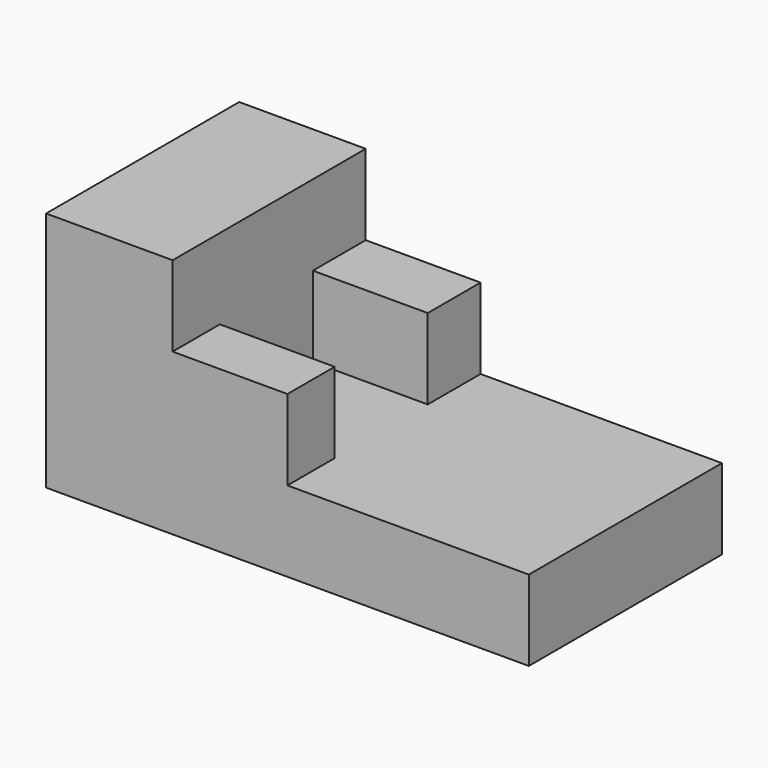
from build123d import *

# Parameters (mm, degrees)
F0_W     = 152.4
F0_H     = 76.2
F1_DEPTH = 25.4
F2_W     = 39.9509807944
F2_H     = 76.2
F3_DEPTH = 50.8
F4_W     = 36.2490192056
F4_H     = 20.8374331653
F4_H_2   = 18.6278219283
F5_DEPTH = 25.4


with BuildPart() as f1:
    # F0 (on Top) → F1 (new body)
    with BuildSketch(Plane.XY):
        Rectangle(F0_W, F0_H)
    extrude(amount=F1_DEPTH)

    # F2 (on face) → F3 (join)
    with BuildSketch(Plane.XY.offset(25.4)):
        with Locations((-56.2245096028, 0)):
            Rectangle(F2_W, F2_H)
    extrude(amount=F3_DEPTH)

    # F4 (on face) → F5 (join)
    with BuildSketch(Plane.XY.offset(25.4)):
        with Locations((-18.1245096028, 27.6812834173)):
            Rectangle(F4_W, F4_H)
        with Locations((-18.1245096028, -28.7860890359)):
            Rectangle(F4_W, F4_H_2)
    extrude(amount=F5_DEPTH)


solid = f1.part
